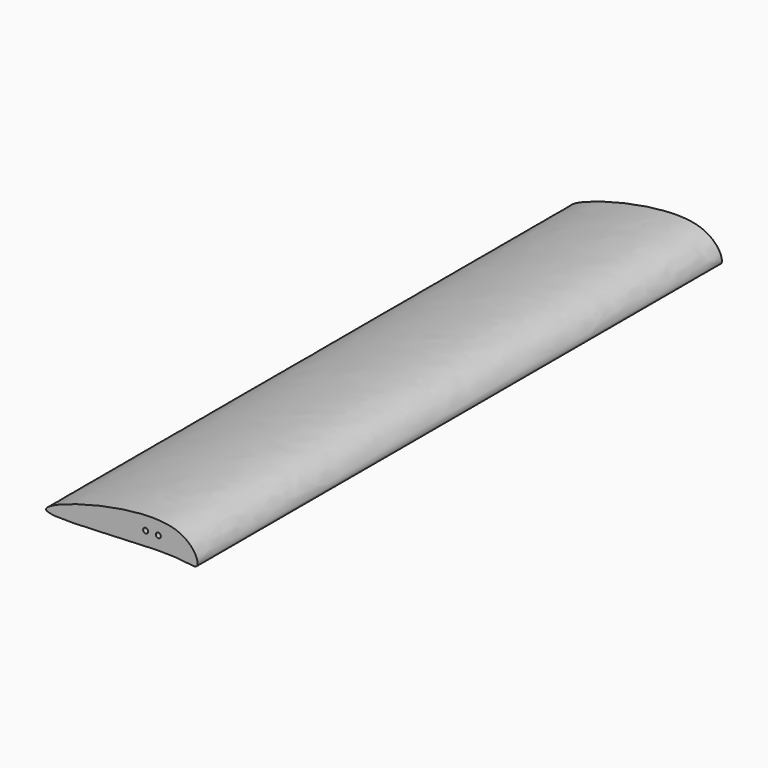
from build123d import *

# Parameters (mm, degrees)
F0_R     = 2.54
F1_DEPTH = 660.4


with BuildPart() as f1:
    # F0 (on Front) → F1 (new body)
    with BuildSketch(Plane.XZ):
        with BuildLine():
            add(Edge.make_bspline(
                [(39.37, 0), (40.8704699325, 4.8303623927), (22.4684353667, 49.4848584793), (-202.7263870887, -18.545227518), (16.6404338561, 6.3661263874), (38.1406033634, -3.9577142805), (39.37, 0)],
                knots=[0, 0, 0, 0, 0.1778960266, 0.516966409, 0.8542424796, 1, 1, 1, 1], degree=3))
        make_face()
        with Locations((-12.7, 13.7381749228)):
            Circle(F0_R, mode=Mode.SUBTRACT)
        with Locations((0, 13.7381749228)):
            Circle(F0_R, mode=Mode.SUBTRACT)
    extrude(amount=F1_DEPTH)


solid = f1.part
